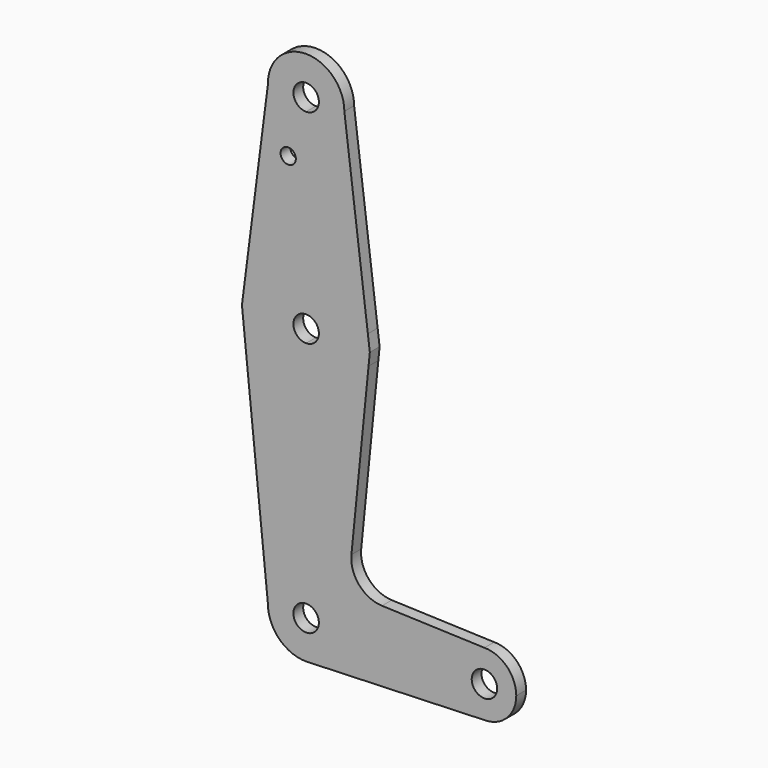
from build123d import *

# Parameters (mm, degrees)
F0_R     = 1.905
F1_DEPTH = 3.048


with BuildPart() as f1:
    # F0 (on Front) → F1 (new body)
    with BuildSketch(Plane.XZ):
        with BuildLine():
            Line((0, 60.2628174668), (0, 65.0126174668))
            ThreePointArc((0, 65.0126174668), (-6.662156054, 67.7301728866), (-9.5227838577, 74.3321604143))
            Line((-9.5227838577, 74.3321604143), (-15.7462983645, 25.7549703895))
            ThreePointArc((-15.7462983645, 25.7549703895), (-10.4878536258, 35.6548550378), (0, 39.6126174668))
            Line((0, 39.6126174668), (0, 60.2628174668))
        make_face()
        with Locations((-4.4763102196, 60.204770416)):
            Circle(F0_R, mode=Mode.SUBTRACT)
        with BuildLine():
            ThreePointArc((9.525, 74.5376174668), (6.7351920908, 67.802425376), (0, 65.0126174668))
            Line((0, 65.0126174668), (0, 60.2628174668))
            Line((0, 60.2628174668), (0, 39.6126174668))
            ThreePointArc((0, 39.6126174668), (9.7463072395, 36.2685839176), (15.3865384615, 27.6453097745))
            Line((15.3865384615, 27.6453097745), (9.525, 74.5376174668))
        make_face()
        with BuildLine():
            ThreePointArc((-9.5227838577, 74.3321604143), (-6.662156054, 67.7301728866), (0, 65.0126174668))
            ThreePointArc((0, 65.0126174668), (6.7351920908, 67.802425376), (9.525, 74.5376174668))
            ThreePointArc((9.525, 74.5376174668), (-0.1027345021, 84.0620634151), (-9.5227838577, 74.3321604143))
        make_face()
        with BuildLine():
            ThreePointArc((3.175, 74.5376174668), (2.2450640303, 72.2925534365), (0, 71.3626174668))
            ThreePointArc((0, 71.3626174668), (-2.2450640303, 76.782681497), (3.175, 74.5376174668))
        make_face(mode=Mode.SUBTRACT)
        with BuildLine():
            Line((0, 26.9126174668), (0, 39.6126174668))
            ThreePointArc((0, 39.6126174668), (-10.4878536258, 35.6548550378), (-15.7462983645, 25.7549703895))
            ThreePointArc((-15.7462983645, 25.7549703895), (-11.917237571, 13.249763841), (0, 7.8626174668))
            Line((0, 7.8626174668), (0, 20.5626174668))
            ThreePointArc((0, 20.5626174668), (-3.175, 23.7376174668), (0, 26.9126174668))
        make_face()
        with BuildLine():
            ThreePointArc((15.3865384615, 27.6453097745), (9.7463072395, 36.2685839176), (0, 39.6126174668))
            Line((0, 39.6126174668), (0, 26.9126174668))
            ThreePointArc((0, 26.9126174668), (2.2450640303, 25.982681497), (3.175, 23.7376174668))
            ThreePointArc((3.175, 23.7376174668), (2.2450640303, 21.4925534365), (0, 20.5626174668))
            Line((0, 20.5626174668), (0, 7.8626174668))
            ThreePointArc((0, 7.8626174668), (10.0526499203, 11.4510453419), (15.5606435644, 20.5940531103))
            Line((15.5606435644, 20.5940531103), (15.875, 23.7376174668))
            Line((15.875, 23.7376174668), (15.3865384615, 27.6453097745))
        make_face()
        with BuildLine():
            ThreePointArc((0, 7.8626174668), (-11.917237571, 13.249763841), (-15.7462983645, 25.7549703895))
            Line((-15.7462983645, 25.7549703895), (-16.0047535196, 23.7376174668))
            Line((-16.0047535196, 23.7376174668), (-9.525, -39.7623825332))
            ThreePointArc((-9.525, -39.7623825332), (-6.7351920908, -33.0271904424), (0, -30.2373825332))
            Line((0, -30.2373825332), (0, 7.8626174668))
        make_face()
        with BuildLine():
            ThreePointArc((15.5606435644, 20.5940531103), (10.0526499203, 11.4510453419), (0, 7.8626174668))
            Line((0, 7.8626174668), (0, -30.2373825332))
            ThreePointArc((0, -30.2373825332), (6.7351920908, -33.0271904424), (9.525, -39.7623825332))
            Line((9.525, -39.7623825332), (36.5125, -39.7623825332))
            ThreePointArc((36.5125, -39.7623825332), (38.8373399243, -34.1497224576), (44.45, -31.8248825332))
            Line((44.45, -31.8248825332), (18.9105730062, -30.9127601406))
            ThreePointArc((18.9105730062, -30.9127601406), (13.2053552395, -28.1961901558), (11.2835831424, -22.176551109))
            Line((11.2835831424, -22.176551109), (15.5606435644, 20.5940531103))
        make_face()
        with BuildLine():
            ThreePointArc((9.525, -39.7623825332), (6.7351920908, -33.0271904424), (0, -30.2373825332))
            Line((0, -30.2373825332), (0, -36.5873825332))
            ThreePointArc((0, -36.5873825332), (2.2450640303, -37.517318503), (3.175, -39.7623825332))
            Line((3.175, -39.7623825332), (9.525, -39.7623825332))
        make_face()
        with BuildLine():
            Line((0, -36.5873825332), (0, -30.2373825332))
            ThreePointArc((0, -30.2373825332), (-6.7351920908, -33.0271904424), (-9.525, -39.7623825332))
            ThreePointArc((-9.525, -39.7623825332), (-6.7351920908, -46.497574624), (0, -49.2873825332))
            Line((0, -49.2873825332), (0.6794904459, -49.2631150173))
            ThreePointArc((0.6794904459, -49.2631150173), (6.9712901065, -46.2528940117), (9.525, -39.7623825332))
            Line((9.525, -39.7623825332), (3.175, -39.7623825332))
            ThreePointArc((3.175, -39.7623825332), (-2.2450640303, -42.0074465635), (0, -36.5873825332))
        make_face()
        with BuildLine():
            Line((36.5125, -39.7623825332), (9.525, -39.7623825332))
            ThreePointArc((9.525, -39.7623825332), (6.9712901065, -46.2528940117), (0.6794904459, -49.2631150173))
            Line((0.6794904459, -49.2631150173), (44.45, -47.6998825332))
            ThreePointArc((44.45, -47.6998825332), (38.8373399243, -45.3750426089), (36.5125, -39.7623825332))
        make_face()
        with BuildLine():
            ThreePointArc((44.45, -31.8248825332), (38.8373399243, -34.1497224576), (36.5125, -39.7623825332))
            ThreePointArc((36.5125, -39.7623825332), (38.8373399243, -45.3750426089), (44.45, -47.6998825332))
            ThreePointArc((44.45, -47.6998825332), (50.0626600757, -45.3750426089), (52.3875, -39.7623825332))
            ThreePointArc((52.3875, -39.7623825332), (50.0626600757, -34.1497224576), (44.45, -31.8248825332))
        make_face()
        with BuildLine():
            ThreePointArc((47.625, -39.7623825332), (44.45, -42.9373825332), (41.275, -39.7623825332))
            ThreePointArc((41.275, -39.7623825332), (44.45, -36.5873825332), (47.625, -39.7623825332))
        make_face(mode=Mode.SUBTRACT)
    extrude(amount=F1_DEPTH)


solid = f1.part
